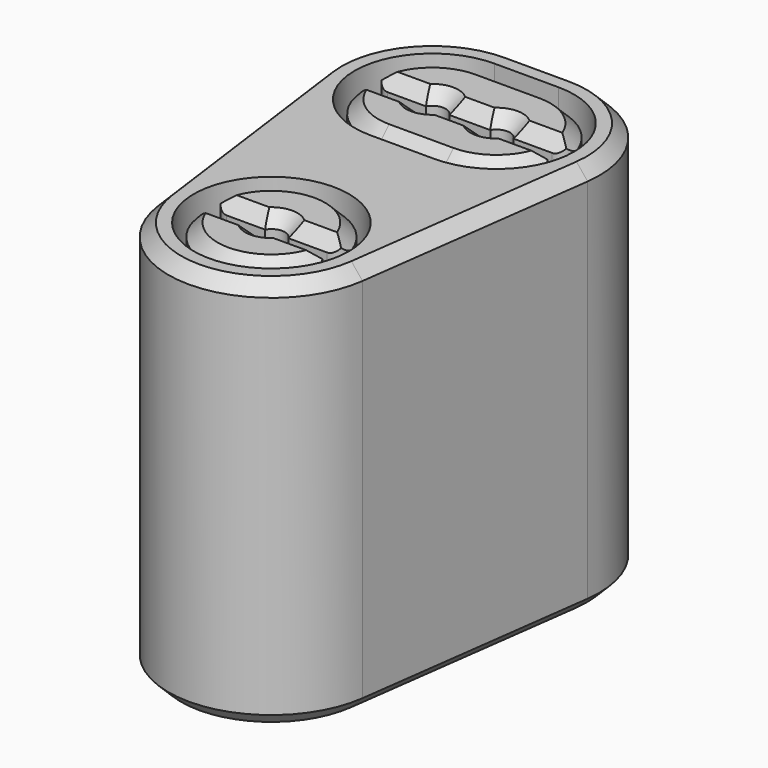
from build123d import *

# Parameters (mm, degrees)
SKETCH002_R     = 0.425
PAD001_DEPTH    = 12.4
CHAMFER001_SIZE = 0.4
SKETCH003_R     = 0.7
POCKET_DEPTH    = 10.401
CHAMFER_SIZE    = 0.265
SKETCH004_R     = 2.45
POCKET001_DEPTH = 4
CHAMFER002_SIZE = 0.4
FILLET_R        = 0.4


with BuildPart() as part:
    # Sketch002 → Pad001 (new body)
    with BuildSketch(Plane.XY):
        with BuildLine():
            ThreePointArc((-1.015, 7.06), (-3.46011, 5.951013), (-4.236546, 3.380883))
            Line((-4.236546, 3.380883), (-3.221546, -4.239117))
            ThreePointArc((-3.221546, -4.239117), (0, -7.06), (3.221546, -4.239117))
            Line((4.236546, 3.380883), (3.221546, -4.239117))
            ThreePointArc((4.236546, 3.380883), (3.46011, 5.951013), (1.015, 7.06))
            Line((-1.015, 7.06), (1.015, 7.06))
        make_face()
        with Locations((-1.015, 3.81)):
            Circle(SKETCH002_R, mode=Mode.SUBTRACT)
        with Locations((1.015, 3.81)):
            Circle(SKETCH002_R, mode=Mode.SUBTRACT)
        with Locations((0, -3.81)):
            Circle(SKETCH002_R, mode=Mode.SUBTRACT)
    extrude(amount=PAD001_DEPTH)

    # Chamfer001
    chamfer001_edges = [part.edges().sort_by_distance(p)[0] for p in [
        (-1.44, 3.81, 12.4),
        (0.59, 3.81, 12.4),
        (-0.425, -3.81, 12.4),
    ]]
    chamfer(chamfer001_edges, length=CHAMFER001_SIZE)

    # Sketch003 → Pocket (cut, through all)
    with BuildSketch(Plane.XY.offset(10.4)):
        with Locations((0, -3.81)):
            Circle(SKETCH003_R)
        with BuildLine():
            ThreePointArc((-1.015, 4.51), (-1.715, 3.81), (-1.015, 3.11))
            Line((-1.015, 3.11), (1.015, 3.11))
            ThreePointArc((1.015, 3.11), (1.715, 3.81), (1.015, 4.51))
            Line((-1.015, 4.51), (1.015, 4.51))
        make_face()
    extrude(amount=-POCKET_DEPTH, mode=Mode.SUBTRACT)

    # Chamfer
    chamfer_edges = [part.edges().sort_by_distance(p)[0] for p in [
        (1.715, 3.81, 10.4),
        (-0.7, -3.81, 10.4),
    ]]
    chamfer(chamfer_edges, length=CHAMFER_SIZE)

    # Sketch004 → Pocket001 (cut)
    with BuildSketch(Plane.XY.offset(12.4)):
        with Locations((0, -3.81)):
            Circle(SKETCH004_R)
        with BuildLine():
            ThreePointArc((2.089221, -3.5975), (0, -1.71), (-2.089221, -3.5975))
            Line((-2.089221, -3.5975), (2.089221, -3.5975))
        make_face(mode=Mode.SUBTRACT)
        with BuildLine():
            ThreePointArc((-2.089221, -4.0225), (0, -5.91), (2.089221, -4.0225))
            Line((-2.089221, -4.0225), (2.089221, -4.0225))
        make_face(mode=Mode.SUBTRACT)
        with BuildLine():
            ThreePointArc((-1.015, 6.26), (-3.465, 3.81), (-1.015, 1.36))
            Line((-1.015, 1.36), (1.015, 1.36))
            ThreePointArc((1.015, 1.36), (3.465, 3.81), (1.015, 6.26))
            Line((-1.015, 6.26), (1.015, 6.26))
        make_face()
        with BuildLine():
            Line((-1.015, 1.71), (1.015, 1.71))
            ThreePointArc((1.015, 1.71), (2.422793, 2.251754), (3.104225, 3.5975))
            Line((-3.104232, 3.5975), (3.104225, 3.5975))
            ThreePointArc((-3.104232, 3.5975), (-2.422798, 2.251752), (-1.015, 1.71))
        make_face(mode=Mode.SUBTRACT)
        with BuildLine():
            Line((-1.015, 5.91), (1.015, 5.91))
            ThreePointArc((3.104225, 4.0225), (2.422793, 5.368246), (1.015, 5.91))
            Line((-3.104232, 4.0225), (3.104225, 4.0225))
            ThreePointArc((-1.015, 5.91), (-2.422798, 5.368248), (-3.104232, 4.0225))
        make_face(mode=Mode.SUBTRACT)
    extrude(amount=-POCKET001_DEPTH, mode=Mode.SUBTRACT)

    # Chamfer002
    chamfer002_edges = [part.edges().sort_by_distance(p)[0] for p in [
        (-2.458197, 4.0225, 12.4),
        (0, 4.0225, 12.4),
        (2.458194, 4.0225, 12.4),
        (2.422793, 5.368246, 12.4),
        (2.422793, 2.251754, 12.4),
        (2.458194, 3.5975, 12.4),
        (0, 3.5975, 12.4),
        (-2.458197, 3.5975, 12.4),
        (-1.443192, -3.5975, 12.4),
        (1.443192, -3.5975, 12.4),
        (0, -1.71, 12.4),
        (1.443192, -4.0225, 12.4),
        (-1.443192, -4.0225, 12.4),
        (0, -5.91, 12.4),
        (3.46011, 5.951013, 0),
        (3.729046, -0.429117, 0),
        (0, 7.06, 0),
        (0, -7.06, 0),
        (-3.46011, 5.951013, 0),
        (-3.729046, -0.429117, 0),
        (-0.7, -3.81, 0),
        (-1.715, 3.81, 0),
        (0, 3.11, 0),
        (1.715, 3.81, 0),
        (0, 4.51, 0),
        (0, -7.06, 12.4),
    ]]
    chamfer(chamfer002_edges, length=CHAMFER002_SIZE)

    # Fillet
    fillet_edges = [part.edges().sort_by_distance(p)[0] for p in [
        (3.104225, 4.0225, 10.2),
        (-3.104232, 4.0225, 10.2),
        (-3.104232, 3.5975, 10.2),
        (-2.089221, -3.5975, 10.2),
        (-2.089221, -4.0225, 10.2),
        (3.104225, 3.5975, 10.2),
        (2.089221, -4.0225, 10.2),
        (2.089221, -3.5975, 10.2),
    ]]
    fillet(fillet_edges, radius=FILLET_R)


solid = part.part
